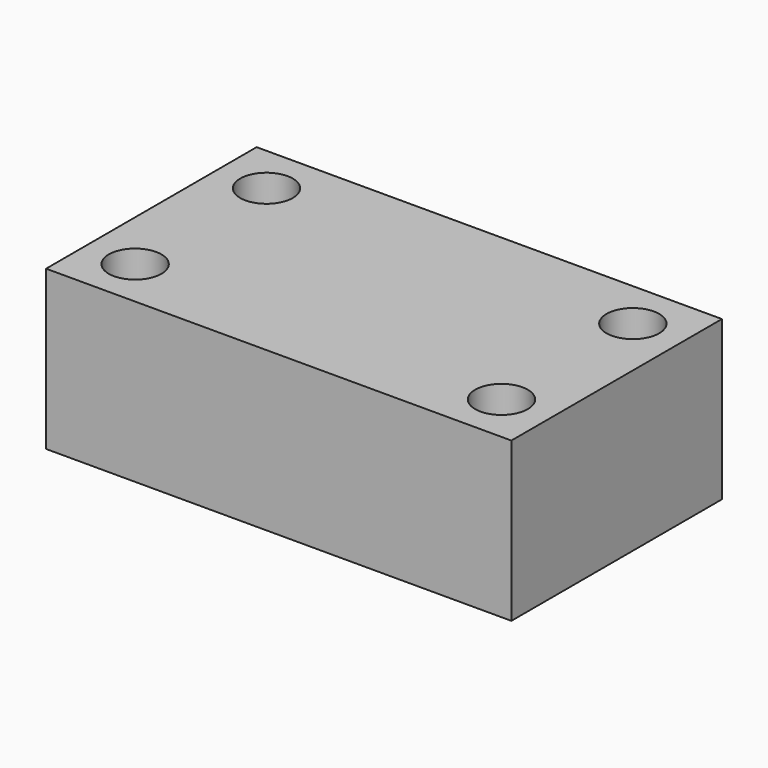
from build123d import *

# Parameters (mm, degrees)
F0_W     = 28.067
F0_H     = 15.875
F1_DEPTH = 9.5758
F3_D     = 3.175


with BuildPart() as f1:
    # F0 (on Top) → F1 (new body)
    with BuildSketch(Plane.XY):
        with Locations((-29.425739, 29.497208)):
            Rectangle(F0_W, F0_H)
    extrude(amount=F1_DEPTH)

    # F3 (through all)
    with Locations(Plane.XY.offset(9.5758)):
        with Locations((-40.474739, 34.450208), (-40.474739, 24.544208), (-18.376739, 24.544208), (-18.376739, 34.450208)):
            Hole(F3_D / 2)


solid = f1.part
